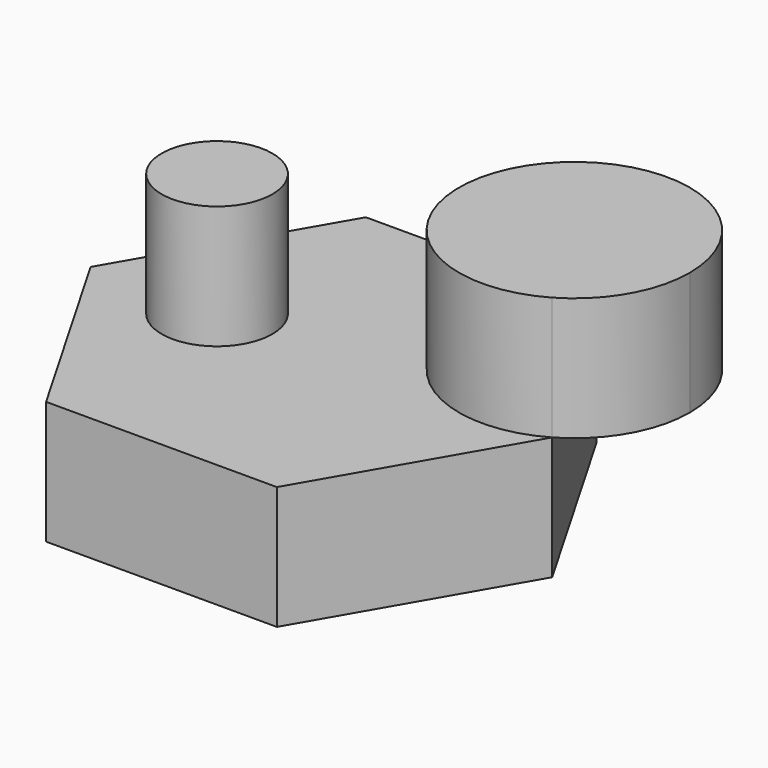
from build123d import *

# Parameters (mm, degrees)
F1_DEPTH = 25
F3_DEPTH = 25
F4_R     = 11.23983
F5_DEPTH = 25


with BuildPart() as f1:
    # F0 (on Top) → F1 (new body)
    with BuildSketch(Plane.XY):
        Polygon((23.434135, 40.589113), (-23.434135, 40.589113), (-46.86827, 0), (-23.434135, -40.589113), (23.434135, -40.589113), (46.86827, 0), align=None)
    extrude(amount=F1_DEPTH)

    # F2 (on face) → F3 (join)
    with BuildSketch(Plane.XY.offset(25)):
        with BuildLine():
            Line((46.86827, 0), (23.434135, 40.589113))
            ThreePointArc((23.434135, 40.589113), (14.856646, 8.577489), (46.86827, 0))
        make_face()
        with BuildLine():
            ThreePointArc((46.86827, 0), (55.445759, 8.577489), (58.585338, 20.294556))
            ThreePointArc((58.585338, 20.294556), (46.86827, 40.589113), (23.434135, 40.589113))
            Line((23.434135, 40.589113), (46.86827, 0))
        make_face()
    extrude(amount=F3_DEPTH)

    # F4 (on face) → F5 (join)
    with BuildSketch(Plane.XY.offset(25)):
        with Locations((-21.189533, 0)):
            Circle(F4_R)
    extrude(amount=F5_DEPTH)


solid = f1.part
